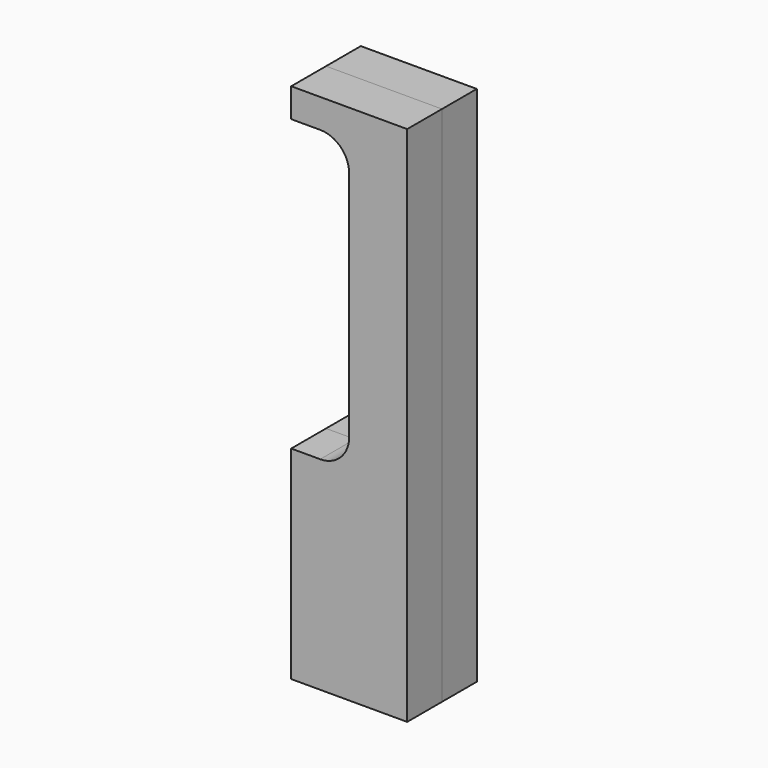
from build123d import *

# Parameters (mm, degrees)
F1_DEPTH = 38.1
F2_R     = 4.7625
F3_DEPTH = 25.4
F4_R     = 4.7625
F5_DEPTH = 25.4


with BuildPart() as f1:
    # F0 (on Front) → F1 (new body)
    with BuildSketch(Plane.XZ):
        with BuildLine():
            Line((50.8, -228.6), (50.8, 228.6))
            Line((50.8, 228.6), (-50.8, 228.6))
            Line((-50.8, 228.6), (-50.8, 203.2))
            Line((-50.8, 203.2), (-25.4, 203.2))
            ThreePointArc((-25.4, 203.2), (-7.439488, 195.760512), (0, 177.8))
            Line((0, 177.8), (0, -25.4))
            ThreePointArc((0, -25.4), (-7.439488, -43.360512), (-25.4, -50.8))
            Line((-25.4, -50.8), (-50.8, -50.8))
            Line((-50.8, -50.8), (-50.8, -228.6))
            Line((-50.8, -228.6), (50.8, -228.6))
        make_face()
    extrude(amount=F1_DEPTH)

    # F2 (on face) → F3 (cut)
    with BuildSketch(Plane(origin=(0, 0, 0), x_dir=(-1, 0, 0), z_dir=(0, 1, 0))):
        with Locations((-31.75, -219.075)):
            Circle(F2_R)
        with Locations((31.75, -219.075)):
            Circle(F2_R)
        with Locations((-31.75, -168.275)):
            Circle(F2_R)
    extrude(amount=-F3_DEPTH, mode=Mode.SUBTRACT)

    # F4 (on face) → F5 (cut)
    with BuildSketch(Plane(origin=(0, 0, 0), x_dir=(-1, 0, 0), z_dir=(0, 1, 0))):
        with Locations((-31.75, 219.075)):
            Circle(F4_R)
    extrude(amount=-F5_DEPTH, mode=Mode.SUBTRACT)


with BuildPart() as f6_1:
    # F6: instance of F1
    add(f1.part.mirror(Plane.XZ))


solid = Compound([f1.part, f6_1.part])
